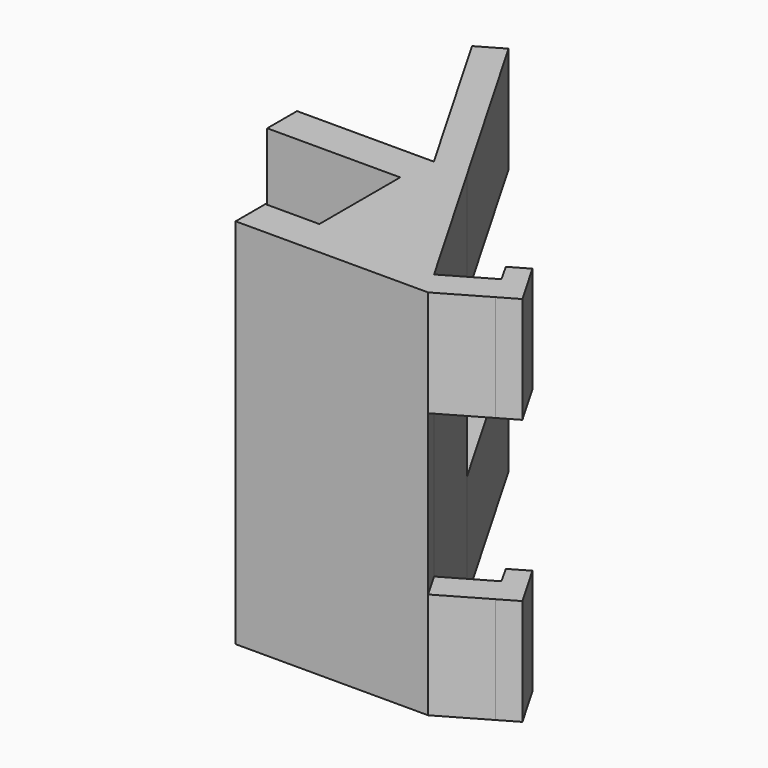
from build123d import *

# Parameters (mm, degrees)
F1_DEPTH = 20
F2_DEPTH = 50
F3_DEPTH = 30


with BuildPart() as f1:
    # F0 (on Top) → F1 (new body)
    with BuildSketch(Plane.XY):
        Polygon((-20.765196, 62.555887), (-2.182231, 30.369248), (4.086395, 30.369248), (-16.063726, 65.270282), align=None)
        Polygon((-27.913605, 30.369248), (-27.913605, 23.369248), (-3.063605, 23.369248), (-2.913605, 23.369248), (-2.913605, 4.369248), (-3.063605, 4.369248), (-13.063605, 4.369248), (-13.063605, -2.630752), (4.086395, -2.630752), (4.086395, 30.369248), (-2.182231, 30.369248), align=None)
        Polygon((20.252203, 2.369248), (4.086395, 30.369248), (4.086395, -2.630752), (23.138954, -2.630752), align=None)
        Polygon((28.912457, 7.369248), (20.252203, 2.369248), (23.138954, -2.630752), (31.799208, 2.369248), align=None)
        Polygon((26.96224, 10.861619), (28.912457, 7.369248), (31.799208, 2.369248), (35.26331, 4.369248), (30.376763, 12.832995), align=None)
    extrude(amount=F1_DEPTH)

    # F0 (on Top) → F2 (join)
    with BuildSketch(Plane.XY):
        Polygon((-20.765196, 62.555887), (-2.182231, 30.369248), (4.086395, 30.369248), (-16.063726, 65.270282), align=None)
        Polygon((-27.913605, 30.369248), (-27.913605, 23.369248), (-3.063605, 23.369248), (-2.913605, 23.369248), (-2.913605, 4.369248), (-3.063605, 4.369248), (-13.063605, 4.369248), (-13.063605, -2.630752), (4.086395, -2.630752), (4.086395, 30.369248), (-2.182231, 30.369248), align=None)
        Polygon((20.252203, 2.369248), (4.086395, 30.369248), (4.086395, -2.630752), (23.138954, -2.630752), align=None)
        Polygon((28.912457, 7.369248), (20.252203, 2.369248), (23.138954, -2.630752), (31.799208, 2.369248), align=None)
        Polygon((26.96224, 10.861619), (28.912457, 7.369248), (31.799208, 2.369248), (35.26331, 4.369248), (30.376763, 12.832995), align=None)
    extrude(amount=-F2_DEPTH)

    # F0 (on Top) → F3 (cut)
    with BuildSketch(Plane.XY):
        Polygon((-20.765196, 62.555887), (-2.182231, 30.369248), (4.086395, 30.369248), (-16.063726, 65.270282), align=None)
        Polygon((28.912457, 7.369248), (20.252203, 2.369248), (23.138954, -2.630752), (31.799208, 2.369248), align=None)
        Polygon((26.96224, 10.861619), (28.912457, 7.369248), (31.799208, 2.369248), (35.26331, 4.369248), (30.376763, 12.832995), align=None)
    extrude(amount=-F3_DEPTH, mode=Mode.SUBTRACT)


solid = f1.part
